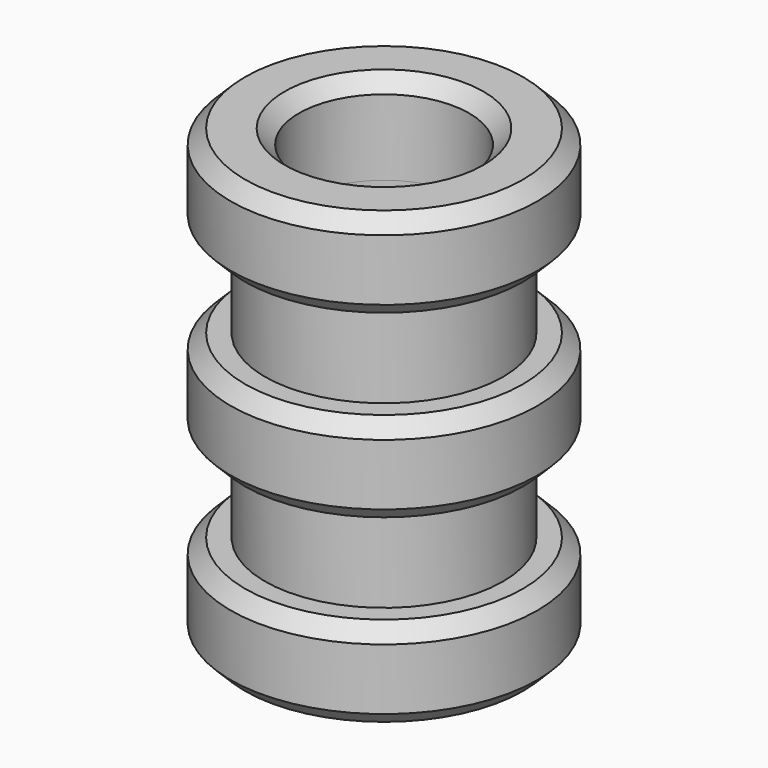
from build123d import *

# Parameters (mm, degrees)
F0_R       = 5.4077606055
F0_R_2     = 4.1986607111
F0_R_3     = 3
F1_DEPTH   = 3.175
F3_DEPTH   = 3.175
F5_DEPTH   = 3.175
F7_DEPTH   = 3.175
F9_DEPTH   = 3.175
F14_SIZE   = 0.508
F14_2_SIZE = 0.508
F14_3_SIZE = 0.508
F15_SIZE   = 0.508
F15_2_SIZE = 0.508


with BuildPart() as f1:
    # F0 (on Top) → F1 (new body)
    with BuildSketch(Plane.XY):
        Circle(F0_R)
        Circle(F0_R_2, mode=Mode.SUBTRACT)
        Circle(F0_R_2)
        Circle(F0_R_3, mode=Mode.SUBTRACT)
    extrude(amount=F1_DEPTH)


with BuildPart() as f1_1:
    # F2: moved
    add(f1.part.moved(Location((0, 0, 15.875))))


with BuildPart() as f3:
    # F0 (on Top) → F3 (new body)
    with BuildSketch(Plane.XY):
        Circle(F0_R_2)
        Circle(F0_R_3, mode=Mode.SUBTRACT)
    extrude(amount=F3_DEPTH)


with BuildPart() as f3_1:
    # F4: moved
    add(f3.part.moved(Location((0, 0, 12.7))))


with BuildPart() as f5:
    # F0 (on Top) → F5 (new body)
    with BuildSketch(Plane.XY):
        Circle(F0_R)
        Circle(F0_R_2, mode=Mode.SUBTRACT)
        Circle(F0_R_2)
        Circle(F0_R_3, mode=Mode.SUBTRACT)
    extrude(amount=F5_DEPTH)


with BuildPart() as f5_1:
    # F6: moved
    add(f5.part.moved(Location((0, 0, 9.525))))


with BuildPart() as f7:
    # F0 (on Top) → F7 (new body)
    with BuildSketch(Plane.XY):
        Circle(F0_R_2)
        Circle(F0_R_3, mode=Mode.SUBTRACT)
    extrude(amount=F7_DEPTH)


with BuildPart() as f7_1:
    # F8: moved
    add(f7.part.moved(Location((0, 0, 6.35))))


with BuildPart() as f9:
    # F0 (on Top) → F9 (new body)
    with BuildSketch(Plane.XY):
        Circle(F0_R)
        Circle(F0_R_2, mode=Mode.SUBTRACT)
        Circle(F0_R_2)
        Circle(F0_R_3, mode=Mode.SUBTRACT)
    extrude(amount=F9_DEPTH)

    # F14#3
    f14_3_edges = [f9.edges().sort_by_distance(p)[0] for p in [
        (-5.407761, 0, 3.175),
        (-5.407761, 0, 0),
    ]]
    chamfer(f14_3_edges, length=F14_3_SIZE)

    # F15
    f15_edges = [f9.edges().sort_by_distance(p)[0] for p in [
        (-3, 0, 0),
    ]]
    chamfer(f15_edges, length=F15_SIZE)


with BuildPart() as f7_2:
    # F10: moved
    add(f7_1.part.moved(Location((0, 0, -3.175))))


with BuildPart() as f5_2:
    # F11: moved
    add(f5_1.part.moved(Location((0, 0, -3.175))))

    # F14#2
    f14_2_edges = [f5_2.edges().sort_by_distance(p)[0] for p in [
        (-5.407761, 0, 9.525),
        (-5.407761, 0, 6.35),
    ]]
    chamfer(f14_2_edges, length=F14_2_SIZE)


with BuildPart() as f3_2:
    # F12: moved
    add(f3_1.part.moved(Location((0, 0, -3.175))))


with BuildPart() as f1_2:
    # F13: moved
    add(f1_1.part.moved(Location((0, 0, -3.175))))

    # F14
    f14_edges = [f1_2.edges().sort_by_distance(p)[0] for p in [
        (-3, 0, 15.875),
        (-5.407761, 0, 15.875),
    ]]
    chamfer(f14_edges, length=F14_SIZE)

    # F15#2
    f15_2_edges = [f1_2.edges().sort_by_distance(p)[0] for p in [
        (-5.407761, 0, 12.7),
    ]]
    chamfer(f15_2_edges, length=F15_2_SIZE)


solid = Compound([f9.part, f7_2.part, f5_2.part, f3_2.part, f1_2.part])
